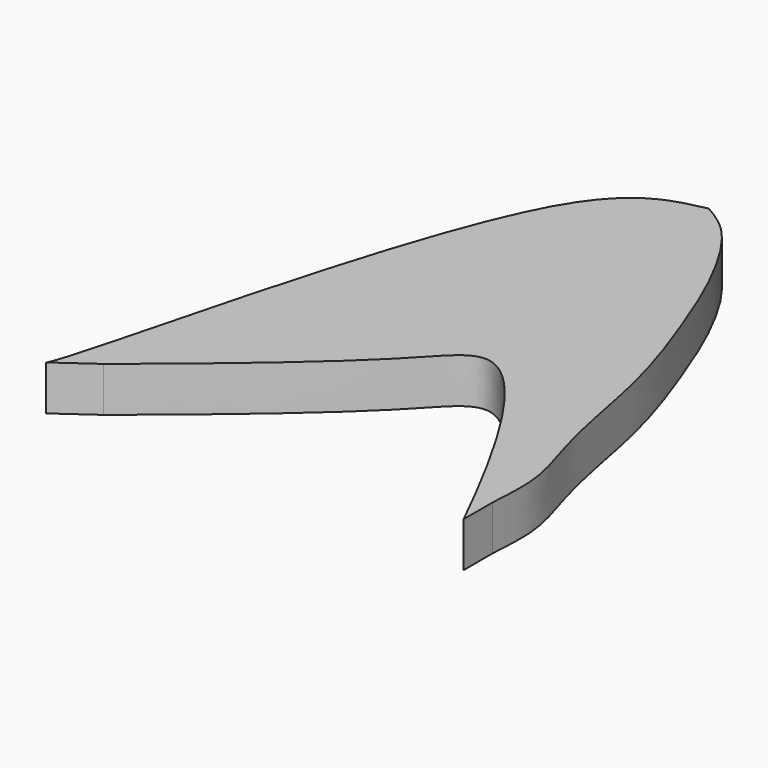
from build123d import *

# Parameters (mm, degrees)
F1_DEPTH = 8


with BuildPart() as f1:
    # F0 (on Top) → F1 (new body)
    with BuildSketch(Plane.XY):
        with BuildLine():
            add(Edge.make_bspline(
                [(31.8238601257, -41.0359096207), (32.0073210236, -37.7684985577), (32.6257596123, -30.8297751349), (27.8959592093, -19.0053574779), (25.060110191, 0.2717087159), (19.1291005381, 16.8909685006), (13.6166654303, 30.9421876015), (6.2085167365, 43.2514806306), (1.8455664458, 45.8585699844), (0, 46.9334646269)],
                knots=[0, 0, 0, 0, 0.1225306066, 0.2606836152, 0.4336285814, 0.5986689508, 0.7523835755, 0.8978615693, 1, 1, 1, 1], degree=3))
            add(Edge.make_bspline(
                [(0, 46.9334646269), (-5.6724746892, 45.7370391414), (-23.0379566961, 42.1919093122), (-40.6392588386, -43.6796010516), (-43.0654876749, -46.9068395715)],
                knots=[0, 0, 0, 0, 0.3211945795, 0.9593341569, 0.9593341569, 0.9593341569, 0.9593341569], degree=3))
            Line((-43.0654876749, -46.9068395715), (-36.5486619024, -42.2666906676))
            add(Edge.make_bspline(
                [(-36.5486619024, -42.2666906676), (-33.4641349352, -39.8113618762), (-25.8069948617, -33.5813307552), (-4.8079700658, -15.7064901384), (6.5876005197, -0.4707353077), (22.0636628619, -27.6722526599), (31.8238601257, -47.4902611008)],
                knots=[0, 0, 0, 0, 0.1912418695, 0.4675076037, 0.642852018, 1, 1, 1, 1], degree=3))
            Line((31.8238601257, -47.4902611008), (31.8238601257, -41.0359096207))
        make_face()
    extrude(amount=F1_DEPTH)


solid = f1.part
